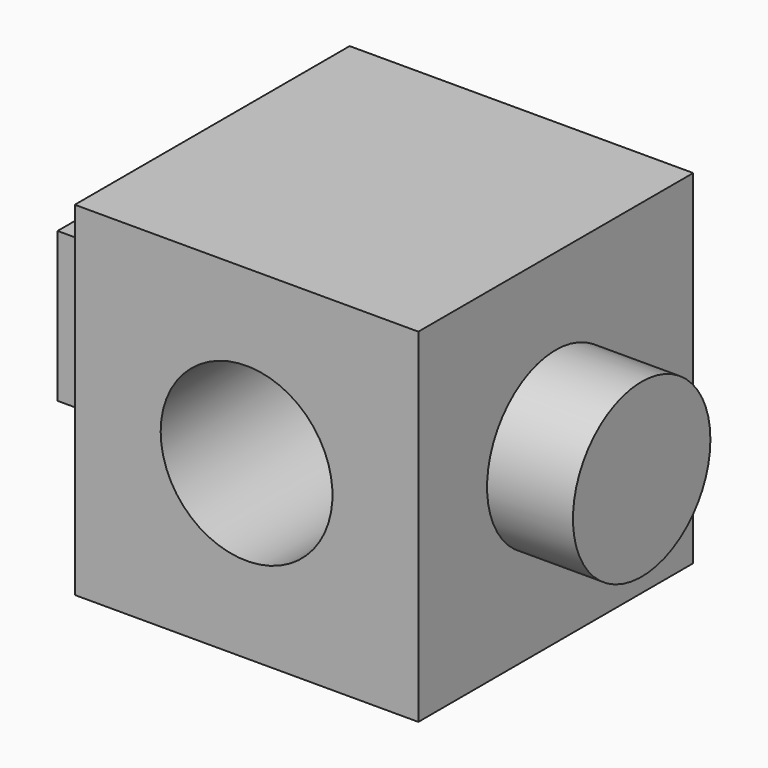
from build123d import *

# Parameters (mm, degrees)
F0_W     = 50.8
F0_H     = 50.8
F1_DEPTH = 50.8
F2_R     = 12.7
F3_DEPTH = 50.8
F4_W     = 22.8882213071
F4_H     = 22.126223892
F5_DEPTH = 12.7
F6_R     = 12.7
F7_DEPTH = 12.7


with BuildPart() as f1:
    # F0 (on Front) → F1 (new body)
    with BuildSketch(Plane.XZ):
        with Locations((25.4, -25.4)):
            Rectangle(F0_W, F0_H)
    extrude(amount=F1_DEPTH)

    # F2 (on face) → F3 (cut)
    with BuildSketch(Plane(origin=(0, 0, 0), x_dir=(-1, 0, 0), z_dir=(0, 1, 0))):
        with Locations((-25.4, -25.4)):
            Circle(F2_R)
    extrude(amount=-F3_DEPTH, mode=Mode.SUBTRACT)

    # F4 (on face) → F5 (join)
    with BuildSketch(Plane(origin=(0, 0, 0), x_dir=(0, -1, 0), z_dir=(-1, 0, 0))):
        with Locations((26.6558893465, -23.763111946)):
            Rectangle(F4_W, F4_H)
    extrude(amount=F5_DEPTH)

    # F6 (on face) → F7 (join)
    with BuildSketch(Plane.YZ.offset(50.8)):
        with Locations((-25.4, -25.4)):
            Circle(F6_R)
    extrude(amount=F7_DEPTH)


solid = f1.part
